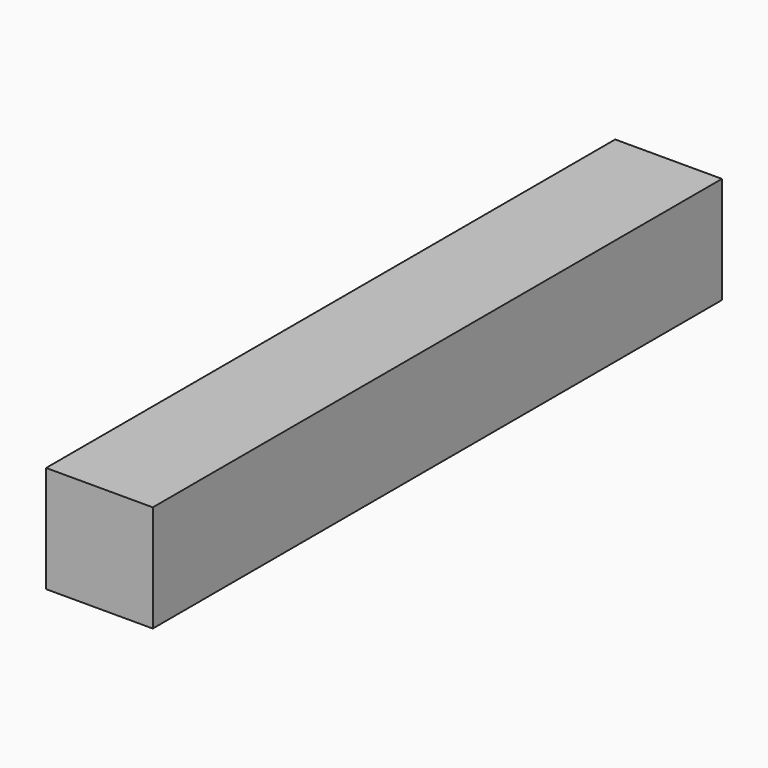
from build123d import *

# Parameters (mm, degrees)
F0_W     = 38.1
F0_H     = 38.1
F1_DEPTH = 254
F2_R     = 13.789761
F3_DEPTH = 19.051


with BuildPart() as f1:
    # F0 (on Front) → F1 (new body)
    with BuildSketch(Plane.XZ):
        Rectangle(F0_W, F0_H)
    extrude(amount=F1_DEPTH)

    # F2 (on Right) → F3 (cut, through all)
    with BuildSketch(Plane.YZ):
        with Locations((-21.738256, 0)):
            Circle(F2_R)
    extrude(amount=-F3_DEPTH, mode=Mode.SUBTRACT)


solid = f1.part
